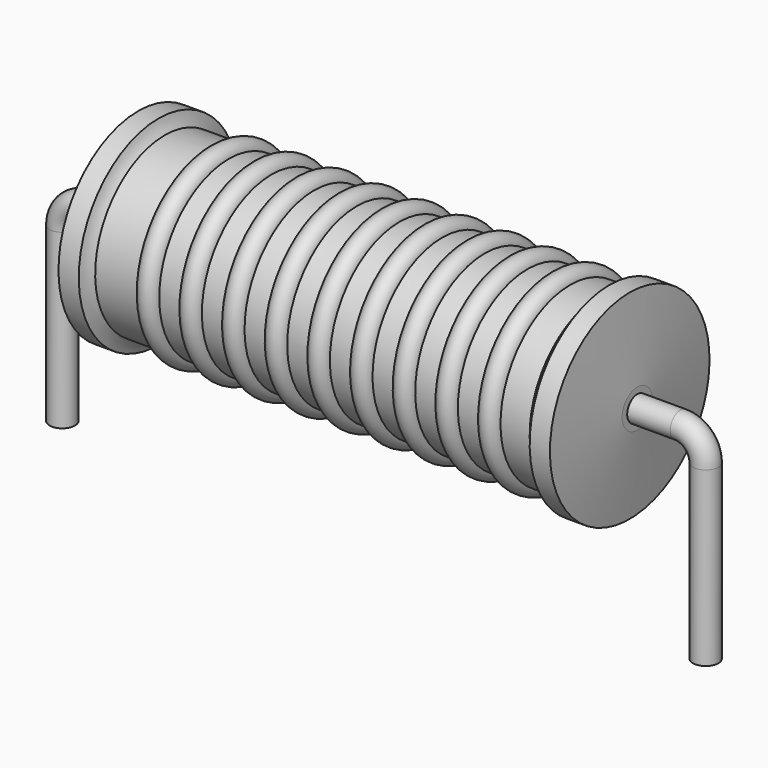
from build123d import *

# Parameters (mm, degrees)
SKETCH_R = 0.4


with BuildPart() as sweep_body:
    # Sweep: sweep along a path in Sketch001
    with BuildLine(Plane.XZ) as sweep_path:
        Line((0, -3), (0, 2.45))
        ThreePointArc((0, 2.45), (0.234312, 3.015683), (0.799993, 3.25))
        Line((0.799993, 3.25), (19.52, 3.25))
        ThreePointArc((19.52, 3.25), (20.085685, 3.015685), (20.32, 2.45))
        Line((20.32, 2.45), (20.32, -3))
    # Sketch → Sweep (sweep)
    with BuildSketch(Plane.XY.offset(-2)):
        Circle(SKETCH_R)
    sweep(path=sweep_path.line)


with BuildPart() as revolution:
    # Sketch002 → Revolution (revolve)
    with BuildSketch(Plane.XZ):
        with BuildLine():
            Line((2.4, 6.4), (3.04, 6.4))
            ThreePointArc((3.04, 6.4), (3.117022, 6.189121), (3.238, 6))
            Line((3.238, 6), (16.96, 6))
            ThreePointArc((16.96, 6), (17.140612, 6.18351), (17.28, 6.4))
            Line((17.28, 6.4), (17.92, 6.4))
            ThreePointArc((18.16, 3.85), (18.04252, 5.125237), (17.92, 6.4))
            Line((18.16, 3.25), (18.16, 3.85))
            Line((2.16, 3.25), (18.16, 3.25))
            Line((2.16, 3.25), (2.16, 3.85))
            ThreePointArc((2.4, 6.4), (2.27748, 5.125237), (2.16, 3.85))
        make_face()
    revolve(axis=Axis((2.16, 0, 3.25), (1, 0, 0)))


with BuildPart() as obj1:
    # Sketch003 → Revolution001 (revolve)
    with BuildSketch(Plane.XZ):
        with BuildLine():
            ThreePointArc((5.267368, 5.936), (4.930526, 6.272842), (4.593684, 5.936))
            Line((3.92, 5.936), (4.593684, 5.936))
            Line((3.92, 5.936), (3.92, 5.306))
            Line((3.92, 5.306), (16.72, 5.306))
            Line((16.72, 5.306), (16.72, 5.936))
            Line((16.046316, 5.936), (16.72, 5.936))
            ThreePointArc((16.046316, 5.936), (15.709474, 6.272842), (15.372632, 5.936))
            Line((14.698947, 5.936), (15.372632, 5.936))
            ThreePointArc((14.698947, 5.936), (14.362105, 6.272842), (14.025263, 5.936))
            Line((13.351579, 5.936), (14.025263, 5.936))
            ThreePointArc((13.351579, 5.936), (13.014737, 6.272842), (12.677895, 5.936))
            Line((12.004211, 5.936), (12.677895, 5.936))
            ThreePointArc((12.004211, 5.936), (11.667368, 6.272842), (11.330526, 5.936))
            Line((10.656842, 5.936), (11.330526, 5.936))
            ThreePointArc((10.656842, 5.936), (10.32, 6.272842), (9.983158, 5.936))
            Line((9.309474, 5.936), (9.983158, 5.936))
            ThreePointArc((9.309474, 5.936), (8.972632, 6.272842), (8.635789, 5.936))
            Line((7.962105, 5.936), (8.635789, 5.936))
            ThreePointArc((7.962105, 5.936), (7.625263, 6.272842), (7.288421, 5.936))
            Line((6.614737, 5.936), (7.288421, 5.936))
            ThreePointArc((6.614737, 5.936), (6.277895, 6.272842), (5.941053, 5.936))
            Line((5.267368, 5.936), (5.941053, 5.936))
        make_face()
    revolve(axis=Axis((2.56, 0, 3.25), (1, 0, 0)))

    # obj1: union Sweep body, Revolution
    add(sweep_body.part)
    add(revolution.part)


solid = obj1.part
